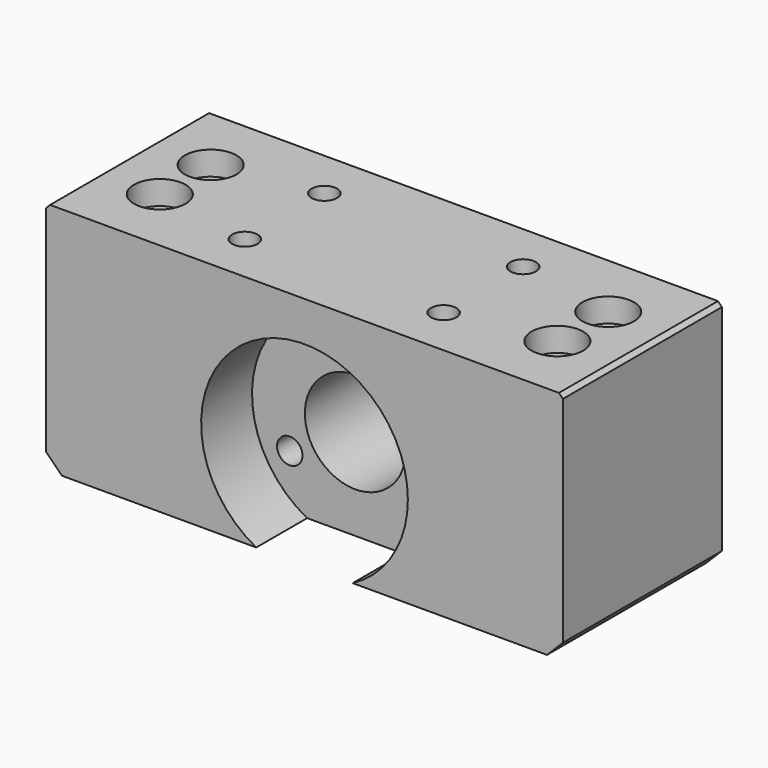
from build123d import *

# Parameters (mm, degrees)
F0_W           = 65
F0_H           = 29.5
F0_R           = 6.35
F1_DEPTH       = 25
F2_SIZE        = 0.5
F3_R           = 6.35
F4_DEPTH       = 8
F5_SIZE        = 2
F7_D           = 3.2
F7_DEPTH       = 8
F7_TIP         = 0.9613769904
F9_D           = 3.3
F9_CBORE_D     = 6.5
F9_CBORE_DEPTH = 3
F11_D          = 3.2
F11_DEPTH      = 10
F11_TIP        = 0.9613769904


with BuildPart() as f1:
    # F0 (on Front) → F1 (new body)
    with BuildSketch(Plane.XZ):
        with Locations((0, 3.25)):
            Rectangle(F0_W, F0_H)
        Circle(F0_R, mode=Mode.SUBTRACT)
    extrude(amount=F1_DEPTH)

    # F2
    f2_edges = [f1.edges().sort_by_distance(p)[0] for p in [
        (-32.5, -12.5, 18),
        (32.5, -12.5, 18),
    ]]
    chamfer(f2_edges, length=F2_SIZE)

    # F3 (on face) → F4 (cut)
    with BuildSketch(Plane.XZ.offset(25)):
        with BuildLine():
            ThreePointArc((6.0621778265, -11.5), (11.1312243654, -6.7153439322), (13, 0))
            ThreePointArc((13, 0), (-6.7153439322, 11.1312243654), (-6.0621778265, -11.5))
            Line((-6.0621778265, -11.5), (6.0621778265, -11.5))
        make_face()
        Circle(F3_R, mode=Mode.SUBTRACT)
    extrude(amount=-F4_DEPTH, mode=Mode.SUBTRACT)

    # F5
    f5_edges = [f1.edges().sort_by_distance(p)[0] for p in [
        (32.5, -12.5, -11.5),
        (-32.5, -12.5, -11.5),
    ]]
    chamfer(f5_edges, length=F5_SIZE)

    # F7
    with Locations(Plane.XY.offset(18)):
        with Locations((12.5, -6.25), (12.5, -18.75), (-12.5, -6.25), (-12.5, -18.75)):
            Hole(F7_D / 2, depth=F7_DEPTH)
            with Locations((0, 0, -(F7_DEPTH + F7_TIP / 2))):  # 118° drill point
                Cone(0, F7_D / 2, F7_TIP, mode=Mode.SUBTRACT)

    # F9 (through all)
    with Locations(Plane.XY.offset(18)):
        with Locations((-25, -8.5), (-25, -16.5), (25, -8.5), (25, -16.5)):
            CounterBoreHole(F9_D / 2, F9_CBORE_D / 2, F9_CBORE_DEPTH)

    # F11
    with Locations(Plane.XZ.offset(17)):
        with Locations((0, 9.53), (8.2532220981, -4.765), (-8.2532220981, -4.765)):
            Hole(F11_D / 2, depth=F11_DEPTH)
            with Locations((0, 0, -(F11_DEPTH + F11_TIP / 2))):  # 118° drill point
                Cone(0, F11_D / 2, F11_TIP, mode=Mode.SUBTRACT)


solid = f1.part
